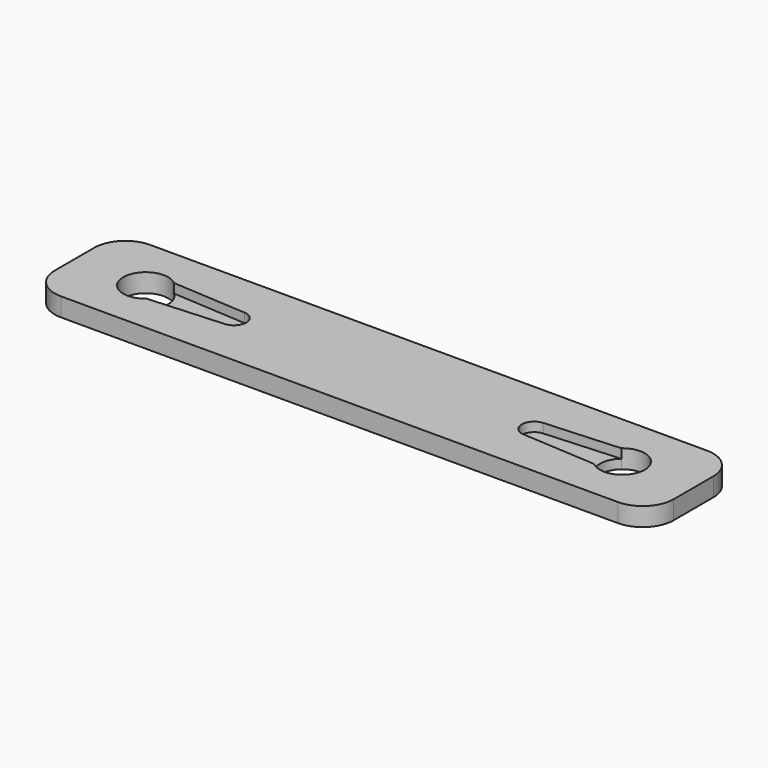
from build123d import *

# Parameters (mm, degrees)
F0_W     = 100
F0_H     = 18
F1_DEPTH = 3
F2_R     = 5
F3_DEPTH = 1.5
F4_DEPTH = 1.5


with BuildPart() as f1:
    # F0 (on Top) → F1 (new body)
    with BuildSketch(Plane.XY):
        Rectangle(F0_W, F0_H)
        with BuildLine():
            ThreePointArc((-36.138195, -2.75), (-42.125, 0), (-36.138195, 2.75))
            Line((-36.138195, 2.75), (-24.124733, 1.996073))
            ThreePointArc((-24.124733, 1.996073), (-22.79217, 1.369209), (-22.25, 0))
            ThreePointArc((-22.25, 0), (-22.79217, -1.369209), (-24.124733, -1.996073))
            Line((-24.124733, -1.996073), (-36.138195, -2.75))
        make_face(mode=Mode.SUBTRACT)
        with BuildLine():
            ThreePointArc((36.138195, 2.75), (40.013123, 3.294098), (42.125, 0))
            ThreePointArc((42.125, 0), (40.013123, -3.294098), (36.138195, -2.75))
            Line((36.138195, -2.75), (24.124733, -1.996073))
            ThreePointArc((24.124733, -1.996073), (22.25, 0), (24.124733, 1.996073))
            Line((24.124733, 1.996073), (36.138195, 2.75))
        make_face(mode=Mode.SUBTRACT)
    extrude(amount=F1_DEPTH)

    # F2
    f2_edges = [f1.edges().sort_by_distance(p)[0] for p in [
        (-50, 9, 1.5),
        (-50, -9, 1.5),
        (50, 9, 1.5),
        (50, -9, 1.5),
    ]]
    fillet(f2_edges, radius=F2_R)

    # F0 (on Top) → F3 (join)
    with BuildSketch(Plane.XY):
        with BuildLine():
            ThreePointArc((-36.138195, 2.75), (-35.205902, 1.513123), (-34.875, 0))
            ThreePointArc((-34.875, 0), (-35.205902, -1.513123), (-36.138195, -2.75))
            Line((-36.138195, -2.75), (-24.124733, -1.996073))
            ThreePointArc((-24.124733, -1.996073), (-26.25, 0), (-24.124733, 1.996073))
            Line((-24.124733, 1.996073), (-36.138195, 2.75))
        make_face()
        with BuildLine():
            ThreePointArc((-22.25, 0), (-22.79217, 1.369209), (-24.124733, 1.996073))
            ThreePointArc((-24.124733, 1.996073), (-26.25, 0), (-24.124733, -1.996073))
            ThreePointArc((-24.124733, -1.996073), (-22.79217, -1.369209), (-22.25, 0))
        make_face()
    extrude(amount=F3_DEPTH)

    # F0 (on Top) → F4 (join)
    with BuildSketch(Plane.XY):
        with BuildLine():
            ThreePointArc((36.138195, -2.75), (34.875, 0), (36.138195, 2.75))
            Line((36.138195, 2.75), (24.124733, 1.996073))
            ThreePointArc((24.124733, 1.996073), (25.619209, 1.45783), (26.25, 0))
            ThreePointArc((26.25, 0), (25.619209, -1.45783), (24.124733, -1.996073))
            Line((24.124733, -1.996073), (36.138195, -2.75))
        make_face()
        with BuildLine():
            ThreePointArc((26.25, 0), (25.619209, 1.45783), (24.124733, 1.996073))
            ThreePointArc((24.124733, 1.996073), (22.25, 0), (24.124733, -1.996073))
            ThreePointArc((24.124733, -1.996073), (25.619209, -1.45783), (26.25, 0))
        make_face()
    extrude(amount=F4_DEPTH)


solid = f1.part
